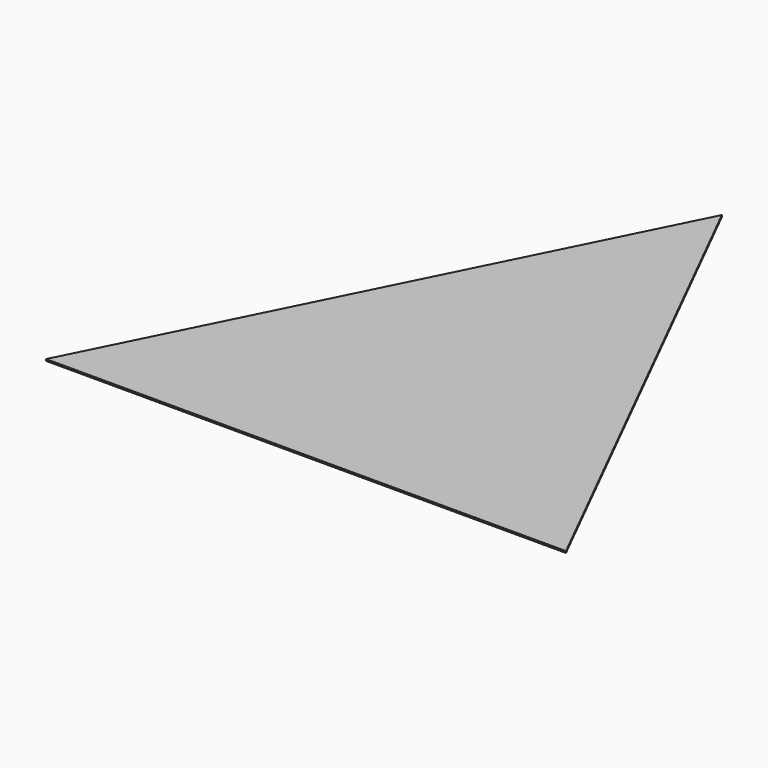
from build123d import *

# Parameters (mm, degrees)
PAD_DEPTH    = 1
PAD001_DEPTH = 1


with BuildPart() as part:
    # Sketch → Pad (new body)
    with BuildSketch(Plane.XY):
        Polygon((-152.4, 0), (0, 304.8), (152.4, 0), (0, 0), align=None)
    extrude(amount=PAD_DEPTH)

    # Sketch001 (on Face6 of Pad) → Pad001 (join)
    with BuildSketch(Plane.XY.offset(1)):
        Polygon((-152.4, 0), (0, 160), (152.4, 0), (0, 304.8), align=None)
    extrude(amount=-PAD001_DEPTH)


solid = part.part
